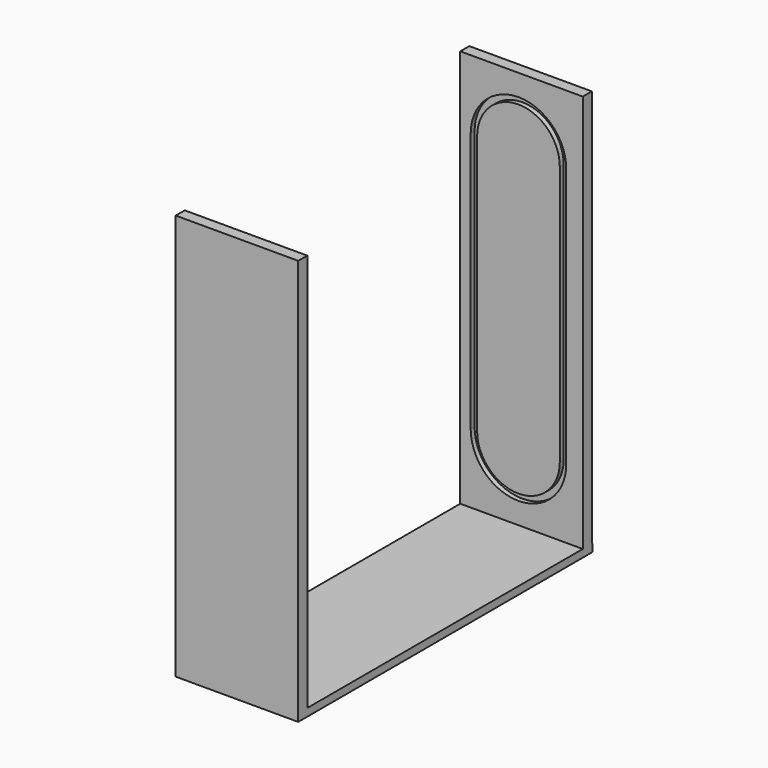
from build123d import *

# Parameters (mm, degrees)
F0_W          = 203.2
F0_H          = 609.6
F1_DEPTH      = 12.7
F2_W          = 203.2
F2_H          = 18.7501087368
F3_DEPTH      = 660.4
F5_DEPTH      = 10.16
F5_DEPTH_BACK = 579.12


with BuildPart() as f1:
    # F0 (on Top) → F1 (new body)
    with BuildSketch(Plane.XY):
        with Locations((-26.7803451535, 0.5164034665)):
            Rectangle(F0_W, F0_H)
    extrude(amount=F1_DEPTH)

    # F2 (on face) → F3 (join)
    with BuildSketch(Plane.XY.offset(12.7)):
        with Locations((-26.7803451535, 294.9085421652)):
            Rectangle(F2_W, F2_H)
        with Locations((-26.7803451535, -294.9085421652)):
            Rectangle(F2_W, F2_H)
    extrude(amount=F3_DEPTH)

    # F4 (on face) → F5 (cut, two sides)
    with BuildSketch(Plane(origin=(0, -285.5334877968, 0), x_dir=(-1, 0, 0), z_dir=(0, 1, 0))) as f5_sk:
        with BuildLine():
            Line((-47.3919240568, 558.3197568053), (-47.3919240568, 127.4802431947))
            ThreePointArc((-47.3919240568, 127.4802431947), (-47.3919755667, 127.3792859835), (-47.3918984296, 127.2783287887))
            ThreePointArc((-47.3918984296, 127.2783287887), (31.835410726, 48.161954644), (111.0627199175, 127.2783287527))
            ThreePointArc((111.0627199175, 127.2783287527), (111.0627976927, 127.3893415928), (111.0627199175, 127.5003544328))
            Line((111.0627199175, 127.5003544328), (111.0627199175, 558.2996455672))
            ThreePointArc((111.0627199175, 558.2996455672), (111.0627970546, 558.4006027949), (111.0627455447, 558.5015600389))
            ThreePointArc((111.0627455447, 558.5015600389), (31.835410729, 637.638045356), (-47.3919240568, 558.5015600091))
            ThreePointArc((-47.3919240568, 558.5015600091), (-47.3919762048, 558.4106584072), (-47.3919240568, 558.3197568053))
        make_face()
        with BuildLine():
            ThreePointArc((-36.7020475123, 127.2783288007), (-36.7021366804, 127.3792859868), (-36.7020771365, 127.4802431948))
            Line((-36.7020771365, 127.4802431948), (-36.7020771365, 558.3197568053))
            ThreePointArc((-36.7020771365, 558.3197568053), (-36.7021374181, 558.4106584072), (-36.7020771365, 558.5015600091))
            ThreePointArc((-36.7020771365, 558.5015600091), (31.8354107241, 626.9482065693), (100.3728986244, 558.5015600488))
            ThreePointArc((100.3728986244, 558.5015600488), (100.3729581683, 558.400602797), (100.3728690001, 558.2996455671))
            Line((100.3728690001, 558.2996455671), (100.3728690001, 127.5003544328))
            ThreePointArc((100.3728690001, 127.5003544328), (100.372958906, 127.3893415928), (100.3728690001, 127.2783287527))
            ThreePointArc((100.3728690001, 127.2783287527), (31.83541072, 58.8517934307), (-36.7020475123, 127.2783288007))
        make_face(mode=Mode.SUBTRACT)
    extrude(amount=-F5_DEPTH, mode=Mode.SUBTRACT)
    extrude(f5_sk.sketch, amount=F5_DEPTH_BACK, mode=Mode.SUBTRACT)


solid = f1.part
